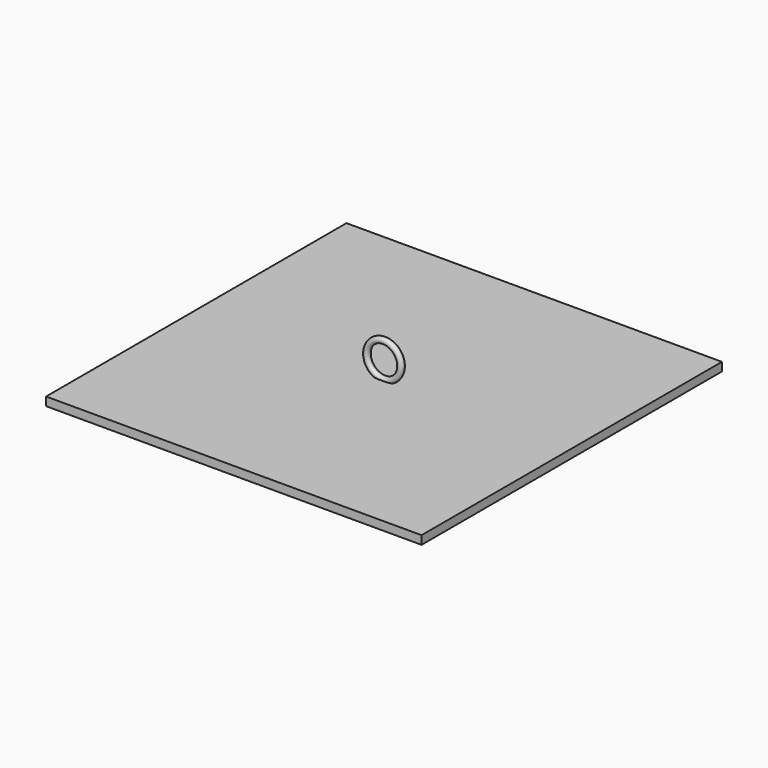
from build123d import *

# Parameters (mm, degrees)
F0_W     = 279.4
F0_H     = 279.4
F1_DEPTH = 6.35
F5_R     = 2.2225
F7_R     = 1.905
F8_DEPTH = 5.08


with BuildPart() as f1:
    # F0 (on Top) → F1 (new body)
    with BuildSketch(Plane.XY):
        with Locations((139.7, 139.7)):
            Rectangle(F0_W, F0_H)
    extrude(amount=F1_DEPTH)

    # F6: sweep along a path in F3
    with BuildLine(Plane.XZ.offset(-139.7)) as f6_path:
        CenterArc((139.7, 19.05), 12.7, 0, 360)
    # F5 (on offset) → F6 (sweep)
    with BuildSketch(Plane.YZ.offset(139.7)):
        with Locations((139.7, 6.35)):
            Circle(F5_R)
    sweep(path=f6_path.line)

    # F7 (on face) → F8 (cut)
    with BuildSketch(Plane(origin=(0, 0, 0), x_dir=(1, 0, 0), z_dir=(0, 0, -1))):
        with Locations((38.1, -38.1)):
            Circle(F7_R)
        with Locations((88.9, -38.1)):
            Circle(F7_R)
        with Locations((139.7, -38.1)):
            Circle(F7_R)
        with Locations((241.3, -38.1)):
            Circle(F7_R)
        with Locations((190.5, -38.1)):
            Circle(F7_R)
        with Locations((38.1, -88.9)):
            Circle(F7_R)
        with Locations((88.9, -88.9)):
            Circle(F7_R)
        with Locations((139.7, -88.9)):
            Circle(F7_R)
        with Locations((190.5, -88.9)):
            Circle(F7_R)
        with Locations((241.3, -88.9)):
            Circle(F7_R)
        with Locations((38.1, -139.7)):
            Circle(F7_R)
        with Locations((88.9, -139.7)):
            Circle(F7_R)
        with Locations((139.7, -139.7)):
            Circle(F7_R)
        with Locations((190.5, -139.7)):
            Circle(F7_R)
        with Locations((241.3, -139.7)):
            Circle(F7_R)
        with Locations((241.3, -190.5)):
            Circle(F7_R)
        with Locations((190.5, -190.5)):
            Circle(F7_R)
        with Locations((139.7, -190.5)):
            Circle(F7_R)
        with Locations((88.9, -190.5)):
            Circle(F7_R)
        with Locations((38.1, -190.5)):
            Circle(F7_R)
        with Locations((38.1, -241.3)):
            Circle(F7_R)
        with Locations((88.9, -241.3)):
            Circle(F7_R)
        with Locations((139.7, -241.3)):
            Circle(F7_R)
        with Locations((190.5, -241.3)):
            Circle(F7_R)
        with Locations((241.3, -241.3)):
            Circle(F7_R)
    extrude(amount=-F8_DEPTH, mode=Mode.SUBTRACT)


solid = f1.part
